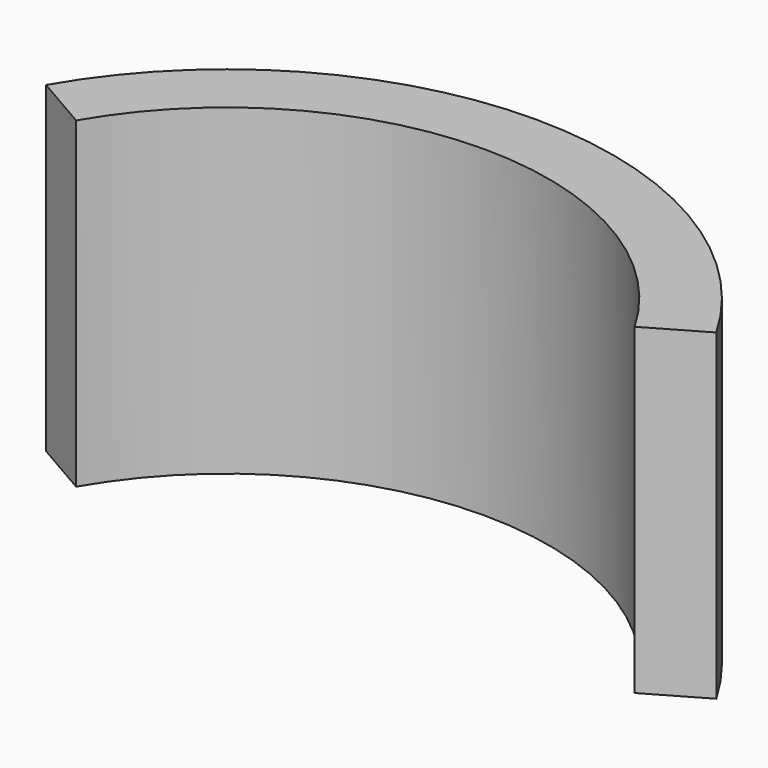
from build123d import *

# Parameters (mm, degrees)
CYLINDER019_W               = 10
CYLINDER019_H               = 10
CYLINDER019_ANGLE           = 120
CYLINDER019_PLACEMENT_ANGLE = 30
CYLINDER017_W               = 12
CYLINDER017_H               = 10
CYLINDER017_ANGLE           = 120
CYLINDER017_PLACEMENT_ANGLE = 30


with BuildPart() as cilindro010:
    # Cylinder019 → Cylinder019 (revolve)
    with BuildSketch(Plane.XZ):
        with Locations((5, 5)):
            Rectangle(CYLINDER019_W, CYLINDER019_H)
    revolve(axis=Axis((0, 0, 0), (0, 0, 1)), revolution_arc=CYLINDER019_ANGLE)


with BuildPart() as cilindro010_1:
    # Cylinder019 placement: moved
    add(cilindro010.part.moved(Location((-30.75, -30, 0))).rotate(Axis((-30.75, -30, 0), (0, 0, 1)), CYLINDER019_PLACEMENT_ANGLE))


with BuildPart() as obj1:
    # Cylinder017 → Cylinder017 (revolve)
    with BuildSketch(Plane.XZ):
        with Locations((6, 5)):
            Rectangle(CYLINDER017_W, CYLINDER017_H)
    revolve(axis=Axis((0, 0, 0), (0, 0, 1)), revolution_arc=CYLINDER017_ANGLE)


with BuildPart() as obj1_1:
    # Cylinder017 placement: moved
    add(obj1.part.moved(Location((-30.75, -30, 0))).rotate(Axis((-30.75, -30, 0), (0, 0, 1)), CYLINDER017_PLACEMENT_ANGLE))

    # Cut006: cut Cilindro010
    add(cilindro010_1.part, mode=Mode.SUBTRACT)


solid = obj1_1.part
